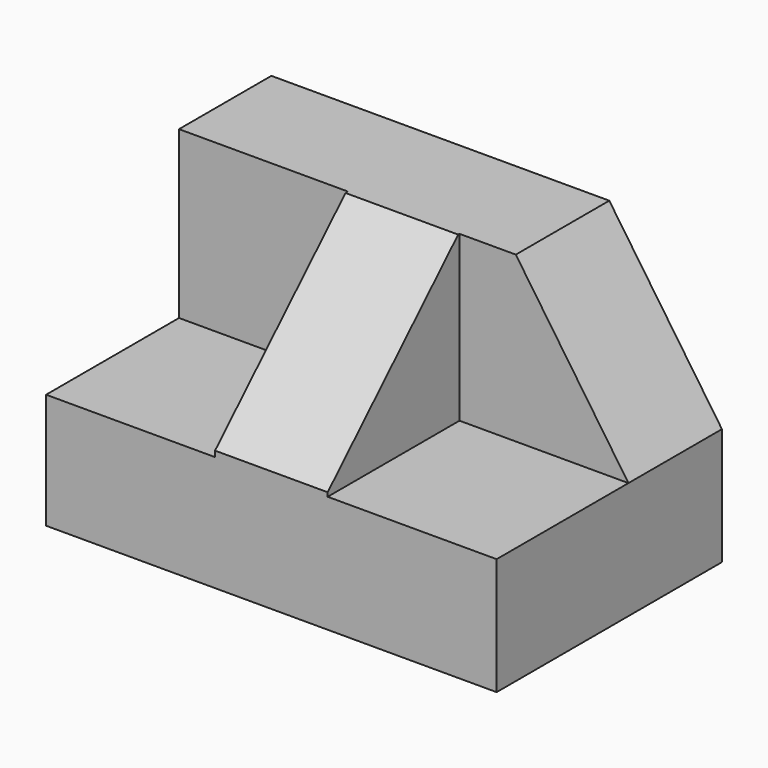
from build123d import *

# Parameters (mm, degrees)
F0_W     = 50.8
F0_H     = 31.75
F1_DEPTH = 31.75
F2_W     = 19.05
F2_H     = 19.05
F3_DEPTH = 19.05
F4_W     = 19.05
F4_H     = 19.05
F5_DEPTH = 19.05
F7_DEPTH = 12.7
F9_DEPTH = 25.4


with BuildPart() as f1:
    # F0 (on Front) → F1 (new body)
    with BuildSketch(Plane.XZ):
        with Locations((25.4, 15.875)):
            Rectangle(F0_W, F0_H)
    extrude(amount=F1_DEPTH)

    # F2 (on Right) → F3 (cut)
    with BuildSketch(Plane.YZ):
        with Locations((-22.54097, 22.531082)):
            Rectangle(F2_W, F2_H)
    extrude(amount=F3_DEPTH, mode=Mode.SUBTRACT)

    # F4 (on face) → F5 (cut)
    with BuildSketch(Plane.YZ.offset(50.8)):
        with Locations((-22.699239, 22.72586)):
            Rectangle(F4_W, F4_H)
    extrude(amount=-F5_DEPTH, mode=Mode.SUBTRACT)

    # F6 (on face) → F7 (cut)
    with BuildSketch(Plane.YZ.offset(31.75)):
        Polygon((-32.069359, 32.085579), (-32.3717, 13.037978), (-13.019359, 32.085579), align=None)
    extrude(amount=-F7_DEPTH, mode=Mode.SUBTRACT)

    # F8 (on face) → F9 (cut)
    with BuildSketch(Plane.XZ.offset(13.174239)):
        Polygon((50.8, 31.75), (38.1, 31.75), (50.8, 13.20086), align=None)
    extrude(amount=-F9_DEPTH, mode=Mode.SUBTRACT)


solid = f1.part
